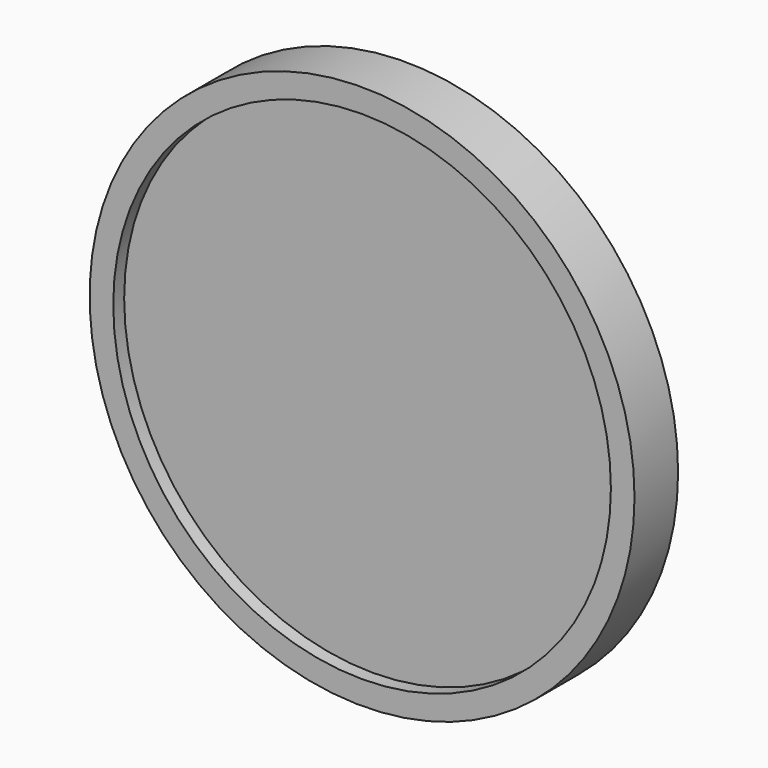
from build123d import *

# Parameters (mm, degrees)
F0_R     = 200
F0_R_2   = 182.658419
F2_DEPTH = 40
F1_R     = 182.658419
F3_DEPTH = 30


with BuildPart() as f2:
    # F0 (on Front) → F2 (new body)
    with BuildSketch(Plane.XZ):
        Circle(F0_R)
        Circle(F0_R_2, mode=Mode.SUBTRACT)
    extrude(amount=F2_DEPTH)

    # F1 (on face) → F3 (join)
    with BuildSketch(Plane.XZ):
        Circle(F1_R)
    extrude(amount=F3_DEPTH)


solid = f2.part
